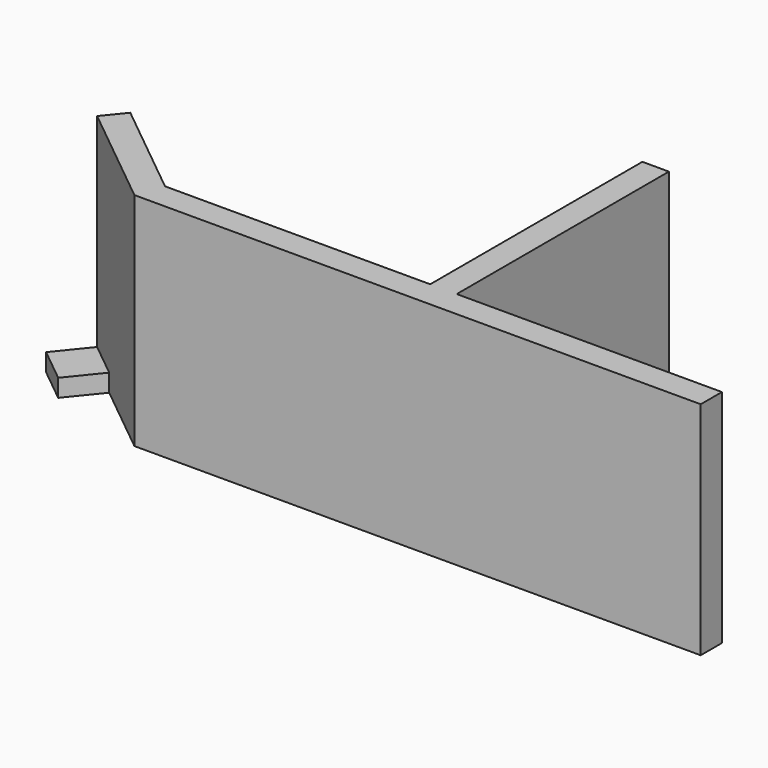
from build123d import *

# Parameters (mm, degrees)
F0_W     = 30
F0_H     = 3
F1_DEPTH = 25
F3_DEPTH = 2


with BuildPart() as f1:
    # F0 (on Top) → F1 (new body)
    with BuildSketch(Plane.XY):
        Polygon((0, 30), (0, 0), (-30, 0), (-41.190162, 9.075798), (-43.079907, 6.745805), (-31.063647, -3), (3, -3), (3, 0), (3, 30), align=None)
        with Locations((18, -1.5)):
            Rectangle(F0_W, F0_H)
    extrude(amount=F1_DEPTH)

    # F2 (on face) → F3 (join)
    with BuildSketch(Plane.XY):
        Polygon((-41.190162, 9.075798), (-43.079907, 6.745805), (-45.985874, 3.162843), (-42.086192, 0), (-34.095925, 9.851738), (-37.865934, 12.90941), align=None)
    extrude(amount=F3_DEPTH)


solid = f1.part
